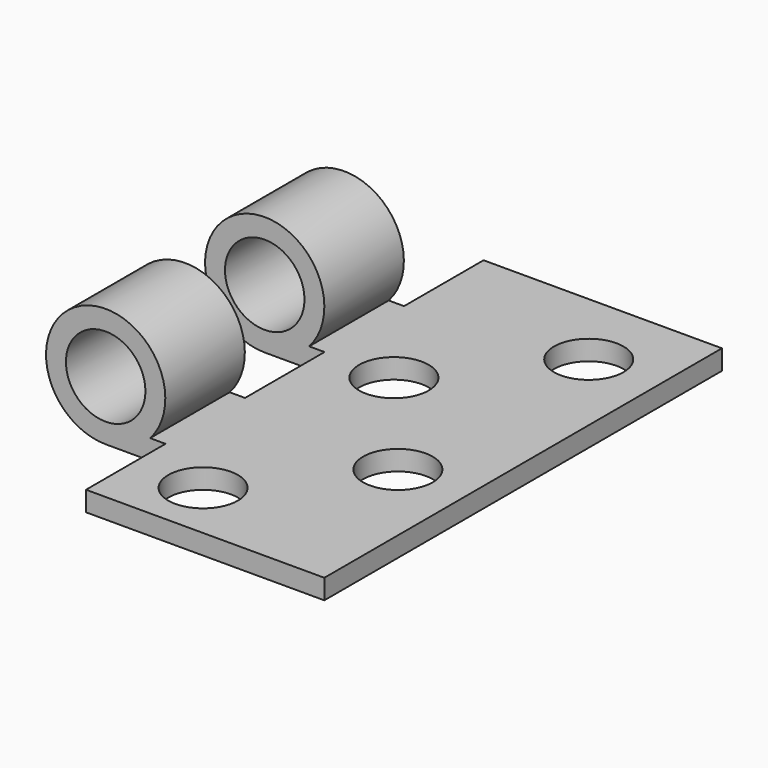
from build123d import *

# Parameters (mm, degrees)
F0_R     = 4
F1_DEPTH = 50
F2_R     = 3.5
F3_DEPTH = 2.001
F4_W     = 14.260426
F4_H     = 10
F4_W_2   = 14.935048
F4_W_3   = 15.686511
F5_DEPTH = 25


with BuildPart() as f1:
    # F0 (on Front) → F1 (new body)
    with BuildSketch(Plane.XZ):
        with BuildLine():
            Line((26.190159, 30.504479), (0.662295, 30.504479))
            ThreePointArc((0.662295, 30.504479), (-6.259331, 39.981705), (-3.809841, 28.504479))
            Line((-3.809841, 28.504479), (26.190159, 28.504479))
            Line((26.190159, 28.504479), (26.190159, 30.504479))
        make_face()
        with Locations((-3.809841, 34.504479)):
            Circle(F0_R, mode=Mode.SUBTRACT)
    extrude(amount=F1_DEPTH)

    # F2 (on face) → F3 (cut, through all)
    with BuildSketch(Plane.XY.offset(30.504479)):
        with Locations((19.190159, -32)):
            Circle(F2_R)
        with Locations((9.190159, -44)):
            Circle(F2_R)
        with Locations((9.190159, -20)):
            Circle(F2_R)
        with Locations((19.190159, -8)):
            Circle(F2_R)
    extrude(amount=-F3_DEPTH, mode=Mode.SUBTRACT)

    # F4 (on face) → F5 (cut)
    with BuildSketch(Plane(origin=(0, 0, 28.504479), x_dir=(1, 0, 0), z_dir=(0, 0, -1))):
        with Locations((-4.92115, 45)):
            Rectangle(F4_W, F4_H)
        with Locations((-5.258461, 25)):
            Rectangle(F4_W_2, F4_H)
        with Locations((-5.634192, 5)):
            Rectangle(F4_W_3, F4_H)
    extrude(amount=-F5_DEPTH, mode=Mode.SUBTRACT)


solid = f1.part
